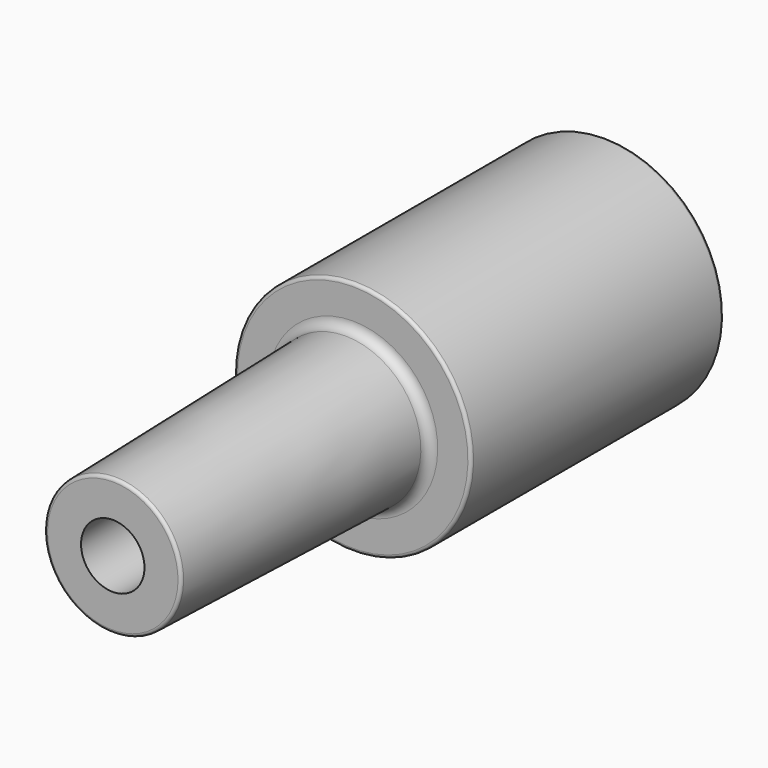
from build123d import *

# Parameters (mm, degrees)
F3_D     = 5.1054
F3_DEPTH = 22.225
F3_TIP   = 1.5338169022
F4_R     = 0.762
F5_R     = 0.254
F6_W     = 47.0435560763
F6_H     = 4.7625


with BuildPart() as f1:
    # F0 (on Right) → F1 (revolve)
    with BuildSketch(Plane.YZ):
        Polygon((-24.13, 0), (25.4, 0), (25.4, 9.525), (0, 9.525), (0, 6.096), (-24.13, 5.4941811878), align=None)
    revolve(axis=Axis((0, 0.635, 0), (0, 1, 0)))

    # F3
    with Locations(Plane.XZ.offset(24.13)):
        with Locations((0, 0)):
            Hole(F3_D / 2, depth=F3_DEPTH)
            with Locations((0, 0, -(F3_DEPTH + F3_TIP / 2))):  # 118° drill point
                Cone(0, F3_D / 2, F3_TIP, mode=Mode.SUBTRACT)

    # F4
    f4_edges = [f1.edges().sort_by_distance(p)[0] for p in [
        (0, 0, -6.096),
    ]]
    fillet(f4_edges, radius=F4_R)

    # F5
    f5_edges = [f1.edges().sort_by_distance(p)[0] for p in [
        (0, 0, -9.525),
        (0, 25.4, -9.525),
        (0, -24.13, -5.494181),
    ]]
    fillet(f5_edges, radius=F5_R)

    # F6 (on Right) → F7 (revolve, cut)
    with BuildSketch(Plane.YZ):
        with Locations((26.6967780381, 2.38125)):
            Rectangle(F6_W, F6_H)
    revolve(axis=Axis((0, 26.6967780381, 0), (0, -1, 0)), mode=Mode.SUBTRACT)


solid = f1.part
